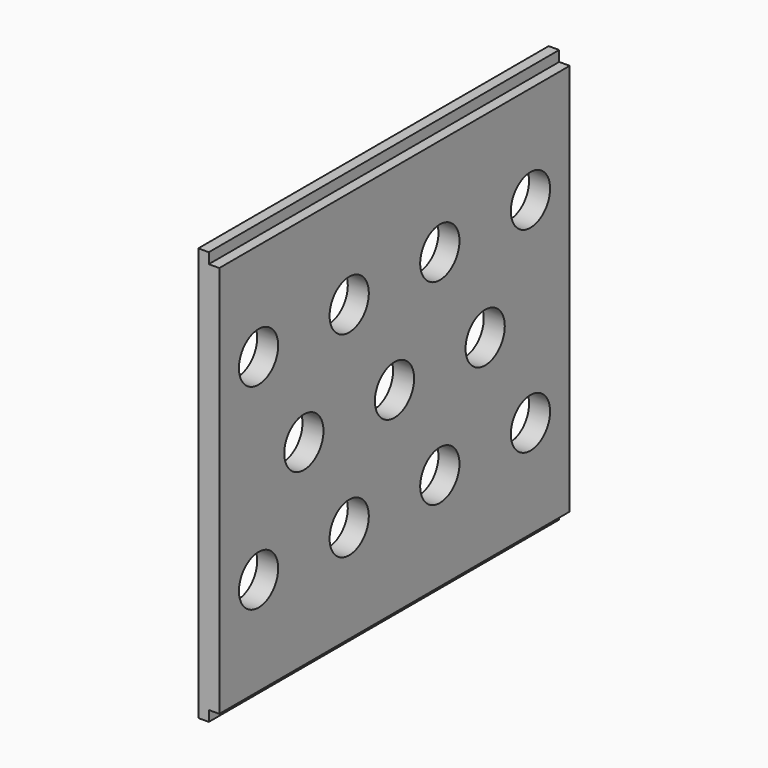
from build123d import *

# Parameters (mm, degrees)
F0_W     = 396.858634
F0_H     = 355.6
F0_R     = 22.225
F1_DEPTH = 19.05
F2_W     = 9.525
F2_H     = 396.858634
F3_DEPTH = 9.525
F4_W     = 9.525
F4_H     = 396.858634
F5_DEPTH = 9.525


with BuildPart() as f1:
    # F0 (on Right) → F1 (new body)
    with BuildSketch(Plane.YZ):
        Rectangle(F0_W, F0_H)
        with Locations((-153.979317, -88.9)):
            Circle(F0_R, mode=Mode.SUBTRACT)
        with Locations((-51.326439, -88.9)):
            Circle(F0_R, mode=Mode.SUBTRACT)
        with Locations((51.326439, -88.9)):
            Circle(F0_R, mode=Mode.SUBTRACT)
        with Locations((153.979317, -88.9)):
            Circle(F0_R, mode=Mode.SUBTRACT)
        with Locations((-102.652878, 0)):
            Circle(F0_R, mode=Mode.SUBTRACT)
        with Locations((-153.979317, 88.9)):
            Circle(F0_R, mode=Mode.SUBTRACT)
        with Locations((-51.326439, 88.9)):
            Circle(F0_R, mode=Mode.SUBTRACT)
        Circle(F0_R, mode=Mode.SUBTRACT)
        with Locations((102.652878, 0)):
            Circle(F0_R, mode=Mode.SUBTRACT)
        with Locations((51.326439, 88.9)):
            Circle(F0_R, mode=Mode.SUBTRACT)
        with Locations((153.979317, 88.9)):
            Circle(F0_R, mode=Mode.SUBTRACT)
    extrude(amount=F1_DEPTH)

    # F2 (on face) → F3 (join)
    with BuildSketch(Plane.XY.offset(177.8)):
        with Locations((4.7625, 0)):
            Rectangle(F2_W, F2_H)
    extrude(amount=F3_DEPTH)

    # F4 (on face) → F5 (join)
    with BuildSketch(Plane(origin=(0, 0, -177.8), x_dir=(1, 0, 0), z_dir=(0, 0, -1))):
        with Locations((4.7625, 0)):
            Rectangle(F4_W, F4_H)
    extrude(amount=F5_DEPTH)


solid = f1.part
